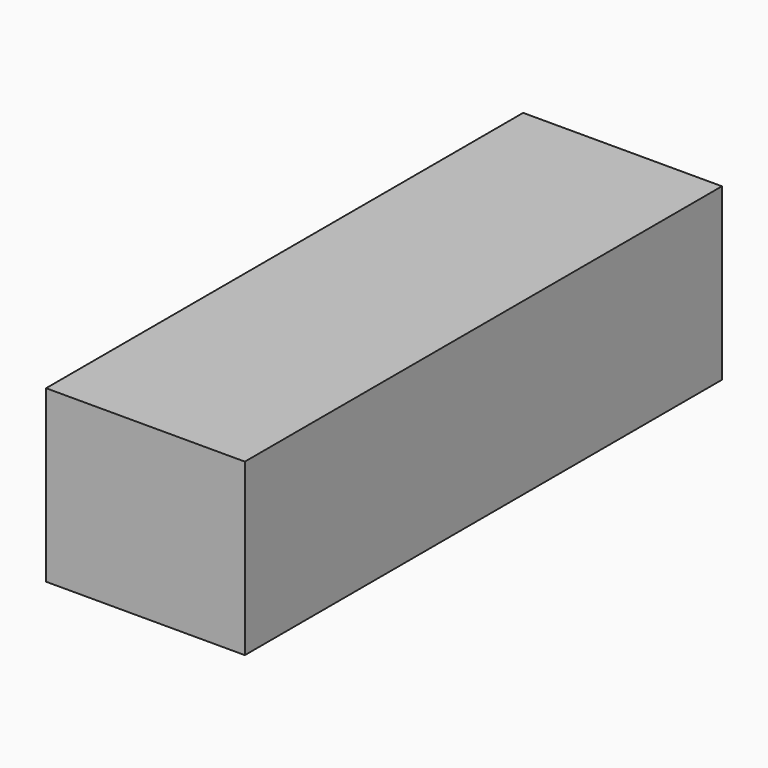
from build123d import *

# Parameters (mm, degrees)
SKETCH_W  = 35
SKETCH_H  = 105
PAD_DEPTH = 30


with BuildPart() as part:
    # Sketch → Pad (new body)
    with BuildSketch(Plane.XY):
        with Locations((17.5, 52.5)):
            Rectangle(SKETCH_W, SKETCH_H)
    extrude(amount=PAD_DEPTH)


solid = part.part
